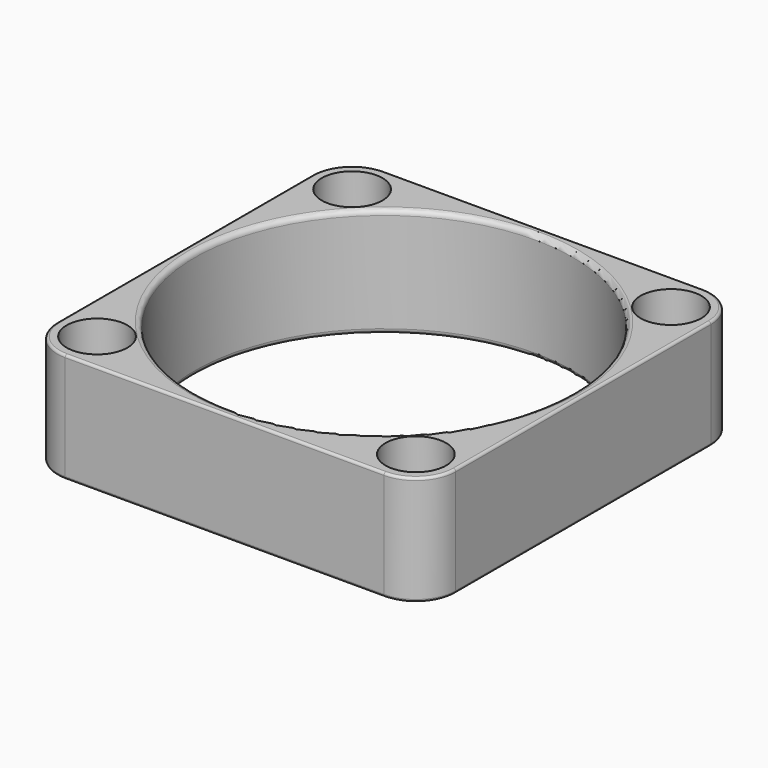
from build123d import *

# Parameters (mm, degrees)
SKETCH075_W         = 40
SKETCH075_H         = 40
PAD024_DEPTH        = 11
SKETCH084_R         = 19
POCKET024_DEPTH     = 11.001
HOLE009_D           = 3.9
HOLE009_DEPTH       = 25
HOLE009_CBORE_D     = 6.1
HOLE009_CBORE_DEPTH = 3.9
FILLET033_R         = 4
FILLET037_R         = 0.5
FILLET039_R         = 0.25


with BuildPart() as part:
    # Sketch075 → Pad024 (new body)
    with BuildSketch(Plane.XY):
        Rectangle(SKETCH075_W, SKETCH075_H)
    extrude(amount=PAD024_DEPTH)

    # Sketch084 (on Face6 of Pad024) → Pocket024 (cut, through all)
    with BuildSketch(Plane.XY.offset(11)):
        Circle(SKETCH084_R)
    extrude(amount=-POCKET024_DEPTH, mode=Mode.SUBTRACT)

    # Hole009
    with Locations(Plane.XY.offset(11)):
        with Locations((16, 16), (16, -16), (-16, 16), (-16, -16)):
            CounterBoreHole(HOLE009_D / 2, HOLE009_CBORE_D / 2, HOLE009_CBORE_DEPTH, depth=HOLE009_DEPTH)

    # Fillet033
    fillet033_edges = [part.edges().sort_by_distance(p)[0] for p in [
        (20, 20, 5.5),
        (-20, 20, 5.5),
        (-20, -20, 5.5),
        (20, -20, 5.5),
    ]]
    fillet(fillet033_edges, radius=FILLET033_R)

    # Fillet037
    fillet037_edges = [part.edges().sort_by_distance(p)[0] for p in [
        (-19, 0, 11),
        (19, 0, 5.5),
        (-19, 0, 0),
    ]]
    fillet(fillet037_edges, radius=FILLET037_R)

    # Fillet039
    fillet039_edges = [part.edges().sort_by_distance(p)[0] for p in [
        (0, -20, 0),
        (16, -20, 5.5),
        (-16, -20, 5.5),
        (0, -20, 11),
        (20, 0, 0),
        (20, 16, 5.5),
        (20, -16, 5.5),
        (20, 0, 11),
        (0, 20, 0),
        (-16, 20, 5.5),
        (16, 20, 5.5),
        (0, 20, 11),
        (-20, 0, 0),
        (-20, -16, 5.5),
        (-20, 16, 5.5),
        (-20, 0, 11),
    ]]
    fillet(fillet039_edges, radius=FILLET039_R)


solid = part.part
